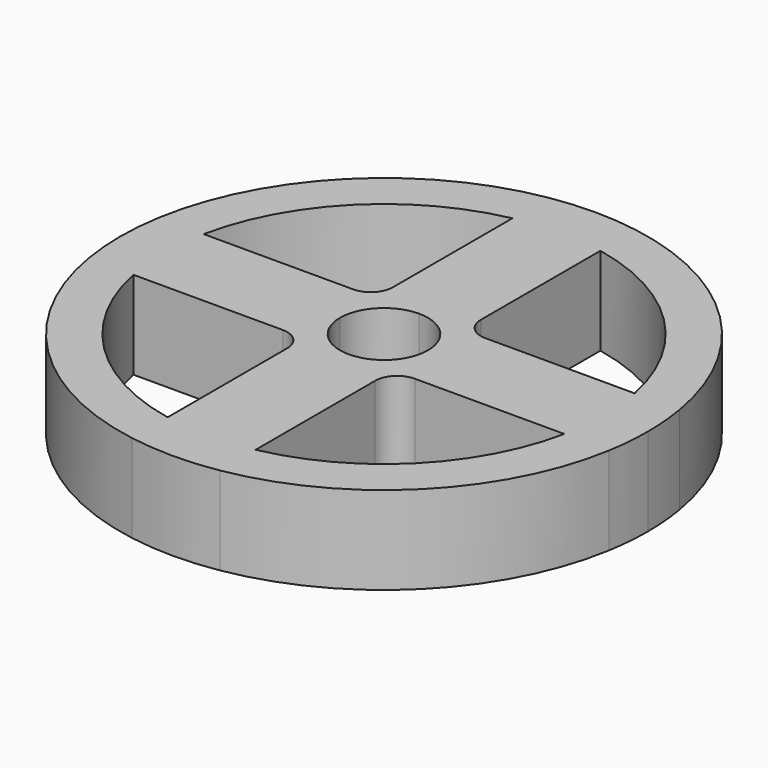
from build123d import *

# Parameters (mm, degrees)
F1_DEPTH = 12.7


with BuildPart() as f1:
    # F0 (on Top) → F1 (new body, symmetric)
    with BuildSketch(Plane.XY):
        with BuildLine():
            ThreePointArc((75.134213, -12.7), (75.933086, -6.372321), (76.2, 0))
            ThreePointArc((76.2, 0), (75.933086, 6.372321), (75.134213, 12.7))
            ThreePointArc((75.134213, 12.7), (53.881537, 53.881537), (12.7, 75.134213))
            ThreePointArc((12.7, 75.134213), (0, 76.2), (-12.7, 75.134213))
            ThreePointArc((-12.7, 75.134213), (-53.881537, 53.881537), (-75.134213, 12.7))
            ThreePointArc((-75.134213, 12.7), (-76.2, 0), (-75.134213, -12.7))
            ThreePointArc((-75.134213, -12.7), (-53.881537, -53.881537), (-12.7, -75.134213))
            ThreePointArc((-12.7, -75.134213), (0, -76.2), (12.7, -75.134213))
            ThreePointArc((12.7, -75.134213), (53.881537, -53.881537), (75.134213, -12.7))
        make_face()
        with BuildLine():
            ThreePointArc((-19.05, -12.7), (-14.559872, -14.559872), (-12.7, -19.05))
            Line((-12.7, -19.05), (-12.7, -62.217039))
            ThreePointArc((-12.7, -62.217039), (-44.901281, -44.901281), (-62.217039, -12.7))
            Line((-62.217039, -12.7), (-19.05, -12.7))
        make_face(mode=Mode.SUBTRACT)
        with BuildLine():
            Line((12.7, -62.217039), (12.7, -19.05))
            ThreePointArc((12.7, -19.05), (14.559872, -14.559872), (19.05, -12.7))
            Line((19.05, -12.7), (62.217039, -12.7))
            ThreePointArc((62.217039, -12.7), (44.901281, -44.901281), (12.7, -62.217039))
        make_face(mode=Mode.SUBTRACT)
        with BuildLine():
            Line((-12.7, 62.217039), (-12.7, 19.05))
            ThreePointArc((-12.7, 19.05), (-14.559872, 14.559872), (-19.05, 12.7))
            Line((-19.05, 12.7), (-62.217039, 12.7))
            ThreePointArc((-62.217039, 12.7), (-44.901281, 44.901281), (-12.7, 62.217039))
        make_face(mode=Mode.SUBTRACT)
        with BuildLine():
            ThreePointArc((0, 12.7), (8.980256, 8.980256), (12.7, 0))
            ThreePointArc((12.7, 0), (8.980256, -8.980256), (0, -12.7))
            ThreePointArc((0, -12.7), (-8.980256, -8.980256), (-12.7, 0))
            ThreePointArc((-12.7, 0), (-8.980256, 8.980256), (0, 12.7))
        make_face(mode=Mode.SUBTRACT)
        with BuildLine():
            ThreePointArc((12.7, 62.217039), (44.901281, 44.901281), (62.217039, 12.7))
            Line((62.217039, 12.7), (19.05, 12.7))
            ThreePointArc((19.05, 12.7), (14.559872, 14.559872), (12.7, 19.05))
            Line((12.7, 19.05), (12.7, 62.217039))
        make_face(mode=Mode.SUBTRACT)
    extrude(amount=F1_DEPTH, both=True)


solid = f1.part
